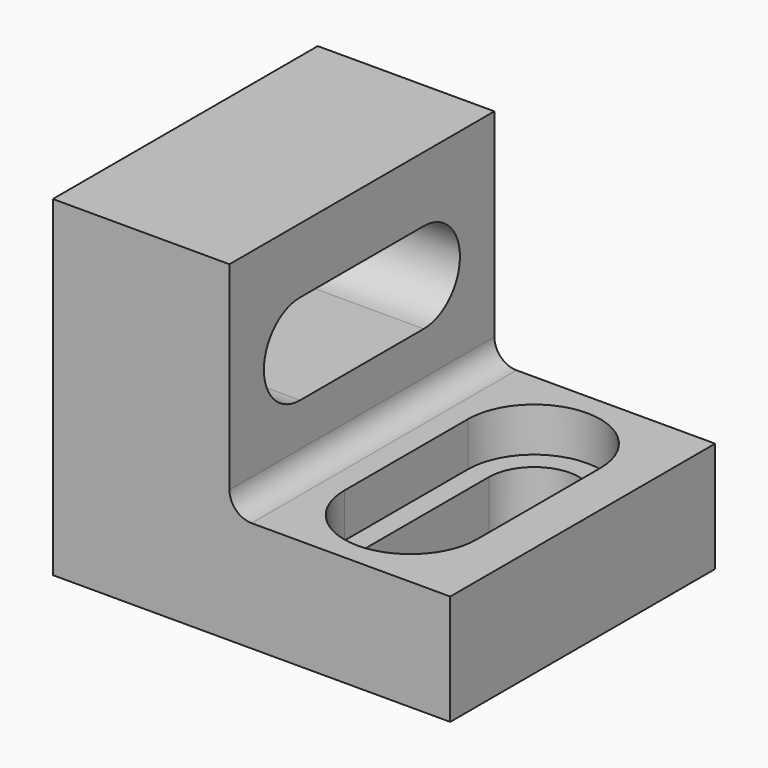
from build123d import *

# Parameters (mm, degrees)
F0_W     = 18
F0_H     = 15
F1_DEPTH = 15
F3_DEPTH = 25
F4_W     = 10
F4_H     = 15
F5_DEPTH = 10
F7_DEPTH = 25
F9_DEPTH = 2
F10_R    = 1


with BuildPart() as f1:
    # F0 (on Top) → F1 (new body)
    with BuildSketch(Plane.XY):
        with Locations((9, 7.5)):
            Rectangle(F0_W, F0_H)
    extrude(amount=F1_DEPTH)

    # F2 (on face) → F3 (cut)
    with BuildSketch(Plane(origin=(0, 0, 0), x_dir=(0, -1, 0), z_dir=(-1, 0, 0))):
        with BuildLine():
            Line((-11, 7.95), (-4, 7.95))
            ThreePointArc((-4, 7.95), (-1.95, 10), (-4, 12.05))
            Line((-4, 12.05), (-11, 12.05))
            ThreePointArc((-11, 12.05), (-13.05, 10), (-11, 7.95))
        make_face()
    extrude(amount=-F3_DEPTH, mode=Mode.SUBTRACT)

    # F4 (on face) → F5 (cut)
    with BuildSketch(Plane.XY.offset(15)):
        with Locations((13, 7.5)):
            Rectangle(F4_W, F4_H)
    extrude(amount=-F5_DEPTH, mode=Mode.SUBTRACT)

    # F6 (on face) → F7 (cut)
    with BuildSketch(Plane.XY.offset(5)):
        with BuildLine():
            Line((15.05, 4), (15.05, 11))
            ThreePointArc((15.05, 11), (13, 13.05), (10.95, 11))
            Line((10.95, 11), (10.95, 4))
            ThreePointArc((10.95, 4), (13, 1.95), (15.05, 4))
        make_face()
    extrude(amount=-F7_DEPTH, mode=Mode.SUBTRACT)

    # F8 (on face) → F9 (cut)
    with BuildSketch(Plane.XY.offset(5)):
        with BuildLine():
            Line((16, 4), (16, 11))
            ThreePointArc((16, 11), (13, 14), (10, 11))
            Line((10, 11), (10, 4))
            ThreePointArc((10, 4), (13, 1), (16, 4))
        make_face()
    extrude(amount=-F9_DEPTH, mode=Mode.SUBTRACT)

    # F10
    f10_edges = [f1.edges().sort_by_distance(p)[0] for p in [
        (8, 7.5, 5),
    ]]
    fillet(f10_edges, radius=F10_R)


solid = f1.part
